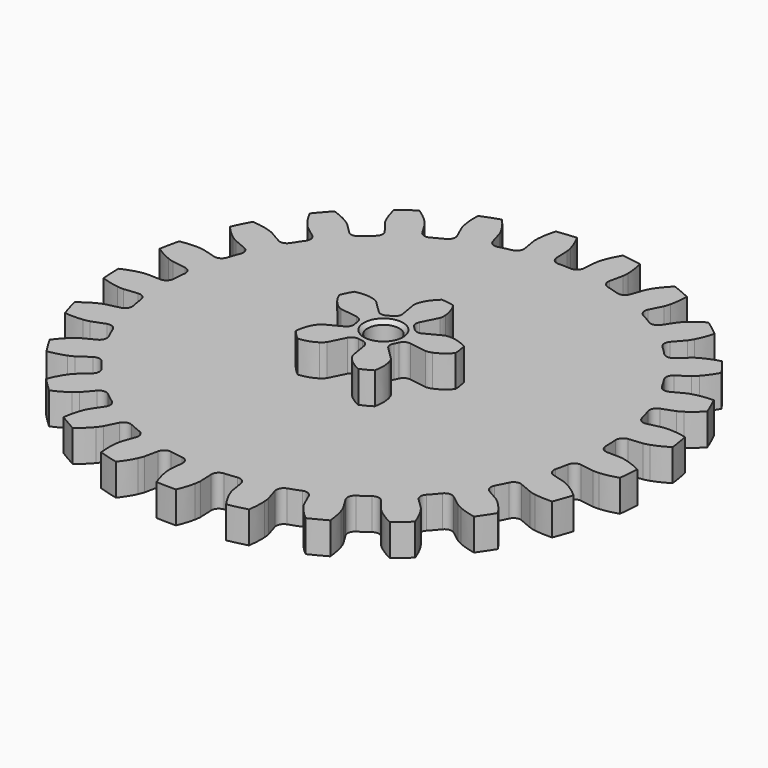
from build123d import *

# Parameters (mm, degrees)
PAD006_DEPTH            = 8.5
PAD007_DEPTH            = 8.5
SKETCH004_R             = 4.25
POCKET003_DEPTH         = 17.001
CHAMFER035_SIZE         = 1
CHAMFER040_SIZE         = 1
BODY003_PLACEMENT_ANGLE = 9.5


with BuildPart() as part:
    # InvoluteGear006 → Pad006 (new body)
    with BuildSketch(Plane.XY):
        with BuildLine():
            Line((60.87215, -3.939404), (64.559683, -4.176009))
            add(Edge.make_bspline(
                [(64.559683, -4.176009), (64.737537, -4.17945), (65.274995, -4.173671), (66.171668, -4.026252)],
                knots=[0, 0, 0, 0, 1, 1, 1, 1], degree=3))
            add(Edge.make_bspline(
                [(66.171668, -4.026252), (67.249506, -3.847612), (68.822578, -3.465338), (70.827658, -2.652928)],
                knots=[0, 0, 0, 0, 1, 1, 1, 1], degree=3))
            ThreePointArc((70.827658, -2.652928), (70.877327, 0), (70.827658, 2.652928))
            add(Edge.make_bspline(
                [(70.827658, 2.652928), (68.822578, 3.465338), (67.249506, 3.847612), (66.171668, 4.026252)],
                knots=[0, 0, 0, 0, 1, 1, 1, 1], degree=3))
            add(Edge.make_bspline(
                [(66.171668, 4.026252), (65.274995, 4.173671), (64.737537, 4.17945), (64.559683, 4.176009)],
                knots=[0, 0, 0, 0, 1, 1, 1, 1], degree=3))
            Line((64.559683, 4.176009), (60.87215, 3.939404))
            ThreePointArc((60.87215, 3.939404), (59.470106, 4.403842), (58.785585, 5.712605))
            ThreePointArc((58.785585, 5.712605), (58.596775, 7.402494), (58.359395, 9.086248))
            ThreePointArc((58.359395, 9.086248), (58.696934, 10.524127), (59.939429, 11.322648))
            Line((59.939429, 11.322648), (63.569953, 12.010529))
            add(Edge.make_bspline(
                [(63.569953, 12.010529), (63.743075, 12.051426), (64.262211, 12.190684), (65.094051, 12.556465)],
                knots=[0, 0, 0, 0, 1, 1, 1, 1], degree=3))
            add(Edge.make_bspline(
                [(65.094051, 12.556465), (66.093601, 12.99754), (67.522184, 13.759011), (69.262234, 15.044541)],
                knots=[0, 0, 0, 0, 1, 1, 1, 1], degree=3))
            ThreePointArc((69.262234, 15.044541), (68.650585, 17.626474), (67.942721, 20.183704))
            add(Edge.make_bspline(
                [(67.942721, 20.183704), (65.798595, 20.471947), (64.179876, 20.451004), (63.091475, 20.355985)],
                knots=[0, 0, 0, 0, 1, 1, 1, 1], degree=3))
            add(Edge.make_bspline(
                [(63.091475, 20.355985), (62.186311, 20.275779), (61.664301, 20.147715), (61.492891, 20.100152)],
                knots=[0, 0, 0, 0, 1, 1, 1, 1], degree=3))
            Line((61.492891, 20.100152), (57.980049, 18.953928))
            ThreePointArc((57.980049, 18.953928), (56.506552, 19.055101), (55.518061, 20.152513))
            ThreePointArc((55.518061, 20.152513), (54.914924, 21.742356), (54.266269, 23.314178))
            ThreePointArc((54.266269, 23.314178), (54.235618, 24.790826), (55.240494, 25.873256))
            Line((55.240494, 25.873256), (58.585889, 27.4424))
            add(Edge.make_bspline(
                [(58.585889, 27.4424), (58.743401, 27.525066), (59.211596, 27.789053), (59.926336, 28.350212)],
                knots=[0, 0, 0, 0, 1, 1, 1, 1], degree=3))
            add(Edge.make_bspline(
                [(59.926336, 28.350212), (60.784792, 29.026008), (61.979124, 30.118831), (63.344808, 31.796706)],
                knots=[0, 0, 0, 0, 1, 1, 1, 1], degree=3))
            ThreePointArc((63.344808, 31.796706), (62.110275, 34.145413), (60.788692, 36.446263))
            add(Edge.make_bspline(
                [(60.788692, 36.446263), (58.640245, 36.192228), (57.07759, 35.769384), (56.047013, 35.406676)],
                knots=[0, 0, 0, 0, 1, 1, 1, 1], degree=3))
            add(Edge.make_bspline(
                [(56.047013, 35.406676), (55.190233, 35.103884), (54.716471, 34.850026), (54.562274, 34.761329)],
                knots=[0, 0, 0, 0, 1, 1, 1, 1], degree=3))
            Line((54.562274, 34.761329), (51.444849, 32.777508))
            ThreePointArc((51.444849, 32.777508), (49.992484, 32.509058), (48.762133, 33.326165))
            ThreePointArc((48.762133, 33.326165), (47.782566, 34.716066), (46.763394, 36.077193))
            ThreePointArc((46.763394, 36.077193), (46.366478, 37.499827), (47.070595, 38.798152))
            Line((47.070595, 38.798152), (49.920658, 41.149965))
            add(Edge.make_bspline(
                [(49.920658, 41.149965), (50.052664, 41.269206), (50.440498, 41.641334), (50.993229, 42.362612)],
                knots=[0, 0, 0, 0, 1, 1, 1, 1], degree=3))
            add(Edge.make_bspline(
                [(50.993229, 42.362612), (51.656651, 43.230666), (52.541687, 44.586174), (53.447195, 46.550967)],
                knots=[0, 0, 0, 0, 1, 1, 1, 1], degree=3))
            ThreePointArc((53.447195, 46.550967), (51.667348, 48.518869), (49.815087, 50.41877))
            add(Edge.make_bspline(
                [(49.815087, 50.41877), (47.797313, 49.638419), (46.388908, 48.840243), (45.480911, 48.232635)],
                knots=[0, 0, 0, 0, 1, 1, 1, 1], degree=3))
            add(Edge.make_bspline(
                [(45.480911, 48.232635), (44.726349, 47.726284), (44.330603, 47.362581), (44.203309, 47.238323)],
                knots=[0, 0, 0, 0, 1, 1, 1, 1], degree=3))
            Line((44.203309, 47.238323), (41.67718, 44.541556))
            ThreePointArc((41.67718, 44.541556), (40.337204, 43.920351), (38.942301, 44.405812))
            ThreePointArc((38.942301, 44.405812), (37.647854, 45.508438), (36.322203, 46.573345))
            ThreePointArc((36.322203, 46.573345), (35.583963, 47.852575), (35.943077, 49.285218))
            Line((35.943077, 49.285218), (38.118729, 52.271926))
            add(Edge.make_bspline(
                [(38.118729, 52.271926), (38.216933, 52.420249), (38.500038, 52.877137), (38.85603, 53.713213)],
                knots=[0, 0, 0, 0, 1, 1, 1, 1], degree=3))
            add(Edge.make_bspline(
                [(38.85603, 53.713213), (39.282733, 54.718982), (39.802863, 56.252003), (40.191298, 58.38026)],
                knots=[0, 0, 0, 0, 1, 1, 1, 1], degree=3))
            ThreePointArc((40.191298, 58.38026), (37.977971, 59.843706), (35.711416, 61.22328))
            add(Edge.make_bspline(
                [(35.711416, 61.22328), (33.9511, 59.965645), (32.785441, 58.842289), (32.057076, 58.027961)],
                knots=[0, 0, 0, 0, 1, 1, 1, 1], degree=3))
            add(Edge.make_bspline(
                [(32.057076, 58.027961), (31.452145, 57.349866), (31.159281, 56.899171), (31.066887, 56.74716)],
                knots=[0, 0, 0, 0, 1, 1, 1, 1], degree=3))
            Line((31.066887, 56.74716), (29.29078, 53.506894))
            ThreePointArc((29.29078, 53.506894), (28.14739, 52.571967), (26.67558, 52.695278))
            ThreePointArc((26.67558, 52.695278), (25.147589, 53.441348), (23.598755, 54.143122))
            ThreePointArc((23.598755, 54.143122), (22.565576, 55.19857), (22.557124, 56.675512))
            Line((22.557124, 56.675512), (23.921659, 60.109449))
            add(Edge.make_bspline(
                [(23.921659, 60.109449), (23.979892, 60.277535), (24.14048, 60.790474), (24.277363, 61.688816)],
                knots=[0, 0, 0, 0, 1, 1, 1, 1], degree=3))
            add(Edge.make_bspline(
                [(24.277363, 61.688816), (24.440537, 62.769103), (24.563078, 64.383313), (24.410035, 66.541306)],
                knots=[0, 0, 0, 0, 1, 1, 1, 1], degree=3))
            ThreePointArc((24.410035, 66.541306), (21.902298, 67.408343), (19.363866, 68.180906))
            add(Edge.make_bspline(
                [(19.363866, 68.180906), (17.971614, 66.525009), (17.121944, 65.147058), (16.618977, 64.177176)],
                knots=[0, 0, 0, 0, 1, 1, 1, 1], degree=3))
            add(Edge.make_bspline(
                [(16.618977, 64.177176), (16.201686, 63.369945), (16.030106, 62.860577), (15.978419, 62.690365)],
                knots=[0, 0, 0, 0, 1, 1, 1, 1], degree=3))
            Line((15.978419, 62.690365), (15.063933, 59.110197))
            ThreePointArc((15.063933, 59.110197), (14.188971, 57.920294), (12.732735, 57.673706))
            ThreePointArc((12.732735, 57.673706), (11.067209, 58.016341), (9.39251, 58.310888))
            ThreePointArc((9.39251, 58.310888), (8.12931, 59.076236), (7.753824, 60.504675))
            Line((7.753824, 60.504675), (8.221504, 64.170075))
            add(Edge.make_bspline(
                [(8.221504, 64.170075), (8.236106, 64.347362), (8.264086, 64.884123), (8.173261, 65.788283)],
                knots=[0, 0, 0, 0, 1, 1, 1, 1], degree=3))
            add(Edge.make_bspline(
                [(8.173261, 65.788283), (8.062651, 66.87521), (7.779905, 68.469182), (7.094999, 70.521317)],
                knots=[0, 0, 0, 0, 1, 1, 1, 1], degree=3))
            ThreePointArc((7.094999, 70.521317), (4.450424, 70.737467), (1.799612, 70.854475))
            add(Edge.make_bspline(
                [(1.799612, 70.854475), (0.862906, 68.904362), (0.382612, 67.358398), (0.136646, 66.293904)],
                knots=[0, 0, 0, 0, 1, 1, 1, 1], degree=3))
            add(Edge.make_bspline(
                [(0.136646, 66.293904), (-0.066784, 65.408257), (-0.106299, 64.872222), (-0.114032, 64.694503)],
                knots=[0, 0, 0, 0, 1, 1, 1, 1], degree=3))
            Line((-0.114032, 64.694503), (-0.109436, 60.99939))
            ThreePointArc((-0.109436, 60.99939), (-0.660993, 59.629275), (-2.010155, 59.028283))
            ThreePointArc((-2.010155, 59.028283), (-3.708565, 58.945954), (-5.403902, 58.814766))
            ThreePointArc((-5.403902, 58.814766), (-6.817749, 59.241924), (-7.536677, 60.532107))
            Line((-7.536677, 60.532107), (-7.995238, 64.198659))
            add(Edge.make_bspline(
                [(-7.995238, 64.198659), (-8.025185, 64.374008), (-8.131571, 64.900864), (-8.444398, 65.75403)],
                knots=[0, 0, 0, 0, 1, 1, 1, 1], degree=3))
            add(Edge.make_bspline(
                [(-8.444398, 65.75403), (-8.821841, 66.779302), (-9.492108, 68.25288), (-10.665842, 70.070215)],
                knots=[0, 0, 0, 0, 1, 1, 1, 1], degree=3))
            ThreePointArc((-10.665842, 70.070215), (-13.281087, 69.621894), (-15.877717, 69.075997))
            add(Edge.make_bspline(
                [(-15.877717, 69.075997), (-16.300022, 66.954201), (-16.380761, 65.337361), (-16.35427, 64.245141)],
                knots=[0, 0, 0, 0, 1, 1, 1, 1], degree=3))
            add(Edge.make_bspline(
                [(-16.35427, 64.245141), (-16.331058, 63.336728), (-16.236025, 62.807706), (-16.199318, 62.633647)],
                knots=[0, 0, 0, 0, 1, 1, 1, 1], degree=3))
            Line((-16.199318, 62.633647), (-15.27593, 59.055766))
            ThreePointArc((-15.27593, 59.055766), (-15.469424, 57.591529), (-16.626739, 56.673896))
            ThreePointArc((-16.626739, 56.673896), (-18.251316, 56.171775), (-19.860766, 55.623097))
            ThreePointArc((-19.860766, 55.623097), (-21.336425, 55.685225), (-22.353622, 56.756084))
            Line((-22.353622, 56.756084), (-23.70961, 60.193405))
            add(Edge.make_bspline(
                [(-23.70961, 60.193405), (-23.782223, 60.355798), (-24.016291, 60.839644), (-24.531464, 61.58821)],
                knots=[0, 0, 0, 0, 1, 1, 1, 1], degree=3))
            add(Edge.make_bspline(
                [(-24.531464, 61.58821), (-25.152023, 62.487405), (-26.167697, 63.747999), (-27.756509, 65.216343)],
                knots=[0, 0, 0, 0, 1, 1, 1, 1], degree=3))
            ThreePointArc((-27.756509, 65.216343), (-30.178098, 64.131723), (-32.557391, 62.95722))
            add(Edge.make_bspline(
                [(-32.557391, 62.95722), (-32.43876, 60.797061), (-32.11487, 59.210938), (-31.817588, 58.15962)],
                knots=[0, 0, 0, 0, 1, 1, 1, 1], degree=3))
            add(Edge.make_bspline(
                [(-31.817588, 58.15962), (-31.569192, 57.285519), (-31.345582, 56.796751), (-31.266742, 56.637289)],
                knots=[0, 0, 0, 0, 1, 1, 1, 1], degree=3))
            Line((-31.266742, 56.637289), (-29.48258, 53.401451))
            ThreePointArc((-29.48258, 53.401451), (-29.305855, 51.935096), (-30.198604, 50.758479))
            ThreePointArc((-30.198604, 50.758479), (-31.64727, 49.868118), (-33.069705, 48.936423))
            ThreePointArc((-33.069705, 48.936423), (-34.514454, 48.629618), (-35.766006, 49.413868))
            Line((-35.766006, 49.413868), (-37.934221, 52.405979))
            add(Edge.make_bspline(
                [(-37.934221, 52.405979), (-38.044938, 52.545211), (-38.391979, 52.955646), (-39.077128, 53.552576)],
                knots=[0, 0, 0, 0, 1, 1, 1, 1], degree=3))
            add(Edge.make_bspline(
                [(-39.077128, 53.552576), (-39.901812, 54.269195), (-41.199073, 55.237597), (-43.103132, 56.264689)],
                knots=[0, 0, 0, 0, 1, 1, 1, 1], degree=3))
            ThreePointArc((-43.103132, 56.264689), (-45.178908, 54.611919), (-47.191365, 52.882609))
            add(Edge.make_bspline(
                [(-47.191365, 52.882609), (-46.539251, 50.819818), (-45.831084, 49.364074), (-45.281689, 48.419717)],
                knots=[0, 0, 0, 0, 1, 1, 1, 1], degree=3))
            add(Edge.make_bspline(
                [(-45.281689, 48.419717), (-44.823717, 47.63485), (-44.48558, 47.217048), (-44.36956, 47.082202)],
                knots=[0, 0, 0, 0, 1, 1, 1, 1], degree=3))
            Line((-44.36956, 47.082202), (-41.836731, 44.391727))
            ThreePointArc((-41.836731, 44.391727), (-41.30089, 43.01539), (-41.87298, 41.653721))
            ThreePointArc((-41.87298, 41.653721), (-43.05471, 40.431063), (-44.200753, 39.174894))
            ThreePointArc((-44.200753, 39.174894), (-45.523813, 38.518434), (-46.93108, 38.966796))
            Line((-46.93108, 38.966796), (-49.775284, 41.325691))
            add(Edge.make_bspline(
                [(-49.775284, 41.325691), (-49.917149, 41.433015), (-50.355358, 41.74425), (-51.167432, 42.152037)],
                knots=[0, 0, 0, 0, 1, 1, 1, 1], degree=3))
            add(Edge.make_bspline(
                [(-51.167432, 42.152037), (-52.144423, 42.641051), (-53.64176, 43.256413), (-55.741427, 43.777717)],
                knots=[0, 0, 0, 0, 1, 1, 1, 1], degree=3))
            ThreePointArc((-55.741427, 43.777717), (-57.340962, 41.660647), (-58.860131, 39.485189))
            add(Edge.make_bspline(
                [(-58.860131, 39.485189), (-57.715509, 37.649379), (-56.667562, 36.415484), (-55.900576, 35.637424)],
                knots=[0, 0, 0, 0, 1, 1, 1, 1], degree=3))
            add(Edge.make_bspline(
                [(-55.900576, 35.637424), (-55.261803, 34.991109), (-54.830386, 34.670524), (-54.684477, 34.568768)],
                knots=[0, 0, 0, 0, 1, 1, 1, 1], degree=3))
            Line((-54.684477, 34.568768), (-51.562127, 32.592707))
            ThreePointArc((-51.562127, 32.592707), (-50.700839, 31.392869), (-50.916322, 29.931706))
            ThreePointArc((-50.916322, 29.931706), (-51.756863, 28.453576), (-52.554505, 26.951863))
            ThreePointArc((-52.554505, 26.951863), (-53.672744, 25.986994), (-55.147302, 26.071298))
            Line((-55.147302, 26.071298), (-58.488784, 27.648759))
            add(Edge.make_bspline(
                [(-58.488784, 27.648759), (-58.652881, 27.717431), (-59.154725, 27.90991), (-60.042699, 28.10293)],
                knots=[0, 0, 0, 0, 1, 1, 1, 1], degree=3))
            add(Edge.make_bspline(
                [(-60.042699, 28.10293), (-61.110608, 28.333613), (-62.713938, 28.55727), (-64.877283, 28.54003)],
                knots=[0, 0, 0, 0, 1, 1, 1, 1], degree=3))
            ThreePointArc((-64.877283, 28.54003), (-65.900072, 26.091684), (-66.830499, 23.60677))
            add(Edge.make_bspline(
                [(-66.830499, 23.60677), (-65.26529, 22.113291), (-63.943409, 21.178775), (-63.007023, 20.615901)],
                knots=[0, 0, 0, 0, 1, 1, 1, 1], degree=3))
            add(Edge.make_bspline(
                [(-63.007023, 20.615901), (-62.227586, 20.148747), (-61.729998, 19.945523), (-61.563366, 19.88325)],
                knots=[0, 0, 0, 0, 1, 1, 1, 1], degree=3))
            Line((-61.563366, 19.88325), (-58.047685, 18.745768))
            ThreePointArc((-58.047685, 18.745768), (-56.915068, 17.797818), (-56.760405, 16.328972))
            ThreePointArc((-56.760405, 16.328972), (-57.206943, 14.688246), (-57.606064, 13.035347))
            ThreePointArc((-57.606064, 13.035347), (-58.449219, 11.822697), (-59.898416, 11.537644))
            Line((-59.898416, 11.537644), (-63.527218, 12.234553))
            add(Edge.make_bspline(
                [(-63.527218, 12.234553), (-63.703238, 12.260258), (-64.237183, 12.321887), (-65.145261, 12.288013)],
                knots=[0, 0, 0, 0, 1, 1, 1, 1], degree=3))
            add(Edge.make_bspline(
                [(-65.145261, 12.288013), (-66.236989, 12.24587), (-67.845569, 12.063769), (-69.936661, 11.509068)],
                knots=[0, 0, 0, 0, 1, 1, 1, 1], degree=3))
            ThreePointArc((-69.936661, 11.509068), (-70.318438, 8.883285), (-70.601661, 6.245051))
            add(Edge.make_bspline(
                [(-70.601661, 6.245051), (-68.714213, 5.187744), (-67.201457, 4.611326), (-66.154508, 4.299005)],
                knots=[0, 0, 0, 0, 1, 1, 1, 1], degree=3))
            add(Edge.make_bspline(
                [(-66.154508, 4.299005), (-65.283382, 4.040366), (-64.750886, 3.967271), (-64.574003, 3.948394)],
                knots=[0, 0, 0, 0, 1, 1, 1, 1], degree=3))
            Line((-64.574003, 3.948394), (-60.885893, 3.720963))
            ThreePointArc((-60.885893, 3.720963), (-59.553114, 3.084465), (-59.038023, 1.700229))
            ThreePointArc((-59.038023, 1.700229), (-59.0625, 0), (-59.038023, -1.700229))
            ThreePointArc((-59.038023, -1.700229), (-59.553114, -3.084465), (-60.885893, -3.720963))
            Line((-60.885893, -3.720963), (-64.574003, -3.948394))
            add(Edge.make_bspline(
                [(-64.574003, -3.948394), (-64.750886, -3.967271), (-65.283382, -4.040366), (-66.154508, -4.299005)],
                knots=[0, 0, 0, 0, 1, 1, 1, 1], degree=3))
            add(Edge.make_bspline(
                [(-66.154508, -4.299005), (-67.201457, -4.611326), (-68.714213, -5.187744), (-70.601661, -6.245051)],
                knots=[0, 0, 0, 0, 1, 1, 1, 1], degree=3))
            ThreePointArc((-70.601661, -6.245051), (-70.318438, -8.883285), (-69.936661, -11.509068))
            add(Edge.make_bspline(
                [(-69.936661, -11.509068), (-67.845569, -12.063769), (-66.236989, -12.24587), (-65.145261, -12.288013)],
                knots=[0, 0, 0, 0, 1, 1, 1, 1], degree=3))
            add(Edge.make_bspline(
                [(-65.145261, -12.288013), (-64.237183, -12.321887), (-63.703238, -12.260258), (-63.527218, -12.234553)],
                knots=[0, 0, 0, 0, 1, 1, 1, 1], degree=3))
            Line((-63.527218, -12.234553), (-59.898416, -11.537644))
            ThreePointArc((-59.898416, -11.537644), (-58.449219, -11.822697), (-57.606064, -13.035347))
            ThreePointArc((-57.606064, -13.035347), (-57.206943, -14.688246), (-56.760405, -16.328972))
            ThreePointArc((-56.760405, -16.328972), (-56.915068, -17.797818), (-58.047685, -18.745768))
            Line((-58.047685, -18.745768), (-61.563366, -19.88325))
            add(Edge.make_bspline(
                [(-61.563366, -19.88325), (-61.729998, -19.945523), (-62.227586, -20.148747), (-63.007023, -20.615901)],
                knots=[0, 0, 0, 0, 1, 1, 1, 1], degree=3))
            add(Edge.make_bspline(
                [(-63.007023, -20.615901), (-63.943409, -21.178775), (-65.26529, -22.113291), (-66.830499, -23.60677)],
                knots=[0, 0, 0, 0, 1, 1, 1, 1], degree=3))
            ThreePointArc((-66.830499, -23.60677), (-65.900072, -26.091684), (-64.877283, -28.54003))
            add(Edge.make_bspline(
                [(-64.877283, -28.54003), (-62.713938, -28.55727), (-61.110608, -28.333613), (-60.042699, -28.10293)],
                knots=[0, 0, 0, 0, 1, 1, 1, 1], degree=3))
            add(Edge.make_bspline(
                [(-60.042699, -28.10293), (-59.154725, -27.90991), (-58.652881, -27.717431), (-58.488784, -27.648759)],
                knots=[0, 0, 0, 0, 1, 1, 1, 1], degree=3))
            Line((-58.488784, -27.648759), (-55.147302, -26.071298))
            ThreePointArc((-55.147302, -26.071298), (-53.672744, -25.986994), (-52.554505, -26.951863))
            ThreePointArc((-52.554505, -26.951863), (-51.756863, -28.453576), (-50.916322, -29.931706))
            ThreePointArc((-50.916322, -29.931706), (-50.700839, -31.392869), (-51.562127, -32.592707))
            Line((-51.562127, -32.592707), (-54.684477, -34.568768))
            add(Edge.make_bspline(
                [(-54.684477, -34.568768), (-54.830386, -34.670524), (-55.261803, -34.991109), (-55.900576, -35.637424)],
                knots=[0, 0, 0, 0, 1, 1, 1, 1], degree=3))
            add(Edge.make_bspline(
                [(-55.900576, -35.637424), (-56.667562, -36.415484), (-57.715509, -37.649379), (-58.860131, -39.485189)],
                knots=[0, 0, 0, 0, 1, 1, 1, 1], degree=3))
            ThreePointArc((-58.860131, -39.485189), (-57.340962, -41.660647), (-55.741427, -43.777717))
            add(Edge.make_bspline(
                [(-55.741427, -43.777717), (-53.64176, -43.256413), (-52.144423, -42.641051), (-51.167432, -42.152037)],
                knots=[0, 0, 0, 0, 1, 1, 1, 1], degree=3))
            add(Edge.make_bspline(
                [(-51.167432, -42.152037), (-50.355358, -41.74425), (-49.917149, -41.433015), (-49.775284, -41.325691)],
                knots=[0, 0, 0, 0, 1, 1, 1, 1], degree=3))
            Line((-49.775284, -41.325691), (-46.93108, -38.966796))
            ThreePointArc((-46.93108, -38.966796), (-45.523813, -38.518434), (-44.200753, -39.174894))
            ThreePointArc((-44.200753, -39.174894), (-43.05471, -40.431063), (-41.87298, -41.653721))
            ThreePointArc((-41.87298, -41.653721), (-41.30089, -43.01539), (-41.836731, -44.391727))
            Line((-41.836731, -44.391727), (-44.36956, -47.082202))
            add(Edge.make_bspline(
                [(-44.36956, -47.082202), (-44.48558, -47.217048), (-44.823717, -47.63485), (-45.281689, -48.419717)],
                knots=[0, 0, 0, 0, 1, 1, 1, 1], degree=3))
            add(Edge.make_bspline(
                [(-45.281689, -48.419717), (-45.831084, -49.364074), (-46.539251, -50.819818), (-47.191365, -52.882609)],
                knots=[0, 0, 0, 0, 1, 1, 1, 1], degree=3))
            ThreePointArc((-47.191365, -52.882609), (-45.178908, -54.611919), (-43.103132, -56.264689))
            add(Edge.make_bspline(
                [(-43.103132, -56.264689), (-41.199073, -55.237597), (-39.901812, -54.269195), (-39.077128, -53.552576)],
                knots=[0, 0, 0, 0, 1, 1, 1, 1], degree=3))
            add(Edge.make_bspline(
                [(-39.077128, -53.552576), (-38.391979, -52.955646), (-38.044938, -52.545211), (-37.934221, -52.405979)],
                knots=[0, 0, 0, 0, 1, 1, 1, 1], degree=3))
            Line((-37.934221, -52.405979), (-35.766006, -49.413868))
            ThreePointArc((-35.766006, -49.413868), (-34.514454, -48.629618), (-33.069705, -48.936423))
            ThreePointArc((-33.069705, -48.936423), (-31.64727, -49.868118), (-30.198604, -50.758479))
            ThreePointArc((-30.198604, -50.758479), (-29.305855, -51.935096), (-29.48258, -53.401451))
            Line((-29.48258, -53.401451), (-31.266742, -56.637289))
            add(Edge.make_bspline(
                [(-31.266742, -56.637289), (-31.345582, -56.796751), (-31.569192, -57.285519), (-31.817588, -58.15962)],
                knots=[0, 0, 0, 0, 1, 1, 1, 1], degree=3))
            add(Edge.make_bspline(
                [(-31.817588, -58.15962), (-32.11487, -59.210938), (-32.43876, -60.797061), (-32.557391, -62.95722)],
                knots=[0, 0, 0, 0, 1, 1, 1, 1], degree=3))
            ThreePointArc((-32.557391, -62.95722), (-30.178098, -64.131723), (-27.756509, -65.216343))
            add(Edge.make_bspline(
                [(-27.756509, -65.216343), (-26.167697, -63.747999), (-25.152023, -62.487405), (-24.531464, -61.58821)],
                knots=[0, 0, 0, 0, 1, 1, 1, 1], degree=3))
            add(Edge.make_bspline(
                [(-24.531464, -61.58821), (-24.016291, -60.839644), (-23.782223, -60.355798), (-23.70961, -60.193405)],
                knots=[0, 0, 0, 0, 1, 1, 1, 1], degree=3))
            Line((-23.70961, -60.193405), (-22.353622, -56.756084))
            ThreePointArc((-22.353622, -56.756084), (-21.336425, -55.685225), (-19.860766, -55.623097))
            ThreePointArc((-19.860766, -55.623097), (-18.251316, -56.171775), (-16.626739, -56.673896))
            ThreePointArc((-16.626739, -56.673896), (-15.469424, -57.591529), (-15.27593, -59.055766))
            Line((-15.27593, -59.055766), (-16.199318, -62.633647))
            add(Edge.make_bspline(
                [(-16.199318, -62.633647), (-16.236025, -62.807706), (-16.331058, -63.336728), (-16.35427, -64.245141)],
                knots=[0, 0, 0, 0, 1, 1, 1, 1], degree=3))
            add(Edge.make_bspline(
                [(-16.35427, -64.245141), (-16.380761, -65.337361), (-16.300022, -66.954201), (-15.877717, -69.075997)],
                knots=[0, 0, 0, 0, 1, 1, 1, 1], degree=3))
            ThreePointArc((-15.877717, -69.075997), (-13.281087, -69.621894), (-10.665842, -70.070215))
            add(Edge.make_bspline(
                [(-10.665842, -70.070215), (-9.492108, -68.25288), (-8.821841, -66.779302), (-8.444398, -65.75403)],
                knots=[0, 0, 0, 0, 1, 1, 1, 1], degree=3))
            add(Edge.make_bspline(
                [(-8.444398, -65.75403), (-8.131571, -64.900864), (-8.025185, -64.374008), (-7.995238, -64.198659)],
                knots=[0, 0, 0, 0, 1, 1, 1, 1], degree=3))
            Line((-7.995238, -64.198659), (-7.536677, -60.532107))
            ThreePointArc((-7.536677, -60.532107), (-6.817749, -59.241924), (-5.403902, -58.814766))
            ThreePointArc((-5.403902, -58.814766), (-3.708565, -58.945954), (-2.010155, -59.028283))
            ThreePointArc((-2.010155, -59.028283), (-0.660993, -59.629275), (-0.109436, -60.99939))
            Line((-0.109436, -60.99939), (-0.114032, -64.694503))
            add(Edge.make_bspline(
                [(-0.114032, -64.694503), (-0.106299, -64.872222), (-0.066784, -65.408257), (0.136646, -66.293904)],
                knots=[0, 0, 0, 0, 1, 1, 1, 1], degree=3))
            add(Edge.make_bspline(
                [(0.136646, -66.293904), (0.382612, -67.358398), (0.862906, -68.904362), (1.799612, -70.854475)],
                knots=[0, 0, 0, 0, 1, 1, 1, 1], degree=3))
            ThreePointArc((1.799612, -70.854475), (4.450424, -70.737467), (7.094999, -70.521317))
            add(Edge.make_bspline(
                [(7.094999, -70.521317), (7.779905, -68.469182), (8.062651, -66.87521), (8.173261, -65.788283)],
                knots=[0, 0, 0, 0, 1, 1, 1, 1], degree=3))
            add(Edge.make_bspline(
                [(8.173261, -65.788283), (8.264086, -64.884123), (8.236106, -64.347362), (8.221504, -64.170075)],
                knots=[0, 0, 0, 0, 1, 1, 1, 1], degree=3))
            Line((8.221504, -64.170075), (7.753824, -60.504675))
            ThreePointArc((7.753824, -60.504675), (8.12931, -59.076236), (9.39251, -58.310888))
            ThreePointArc((9.39251, -58.310888), (11.067209, -58.016341), (12.732735, -57.673706))
            ThreePointArc((12.732735, -57.673706), (14.188971, -57.920294), (15.063933, -59.110197))
            Line((15.063933, -59.110197), (15.978419, -62.690365))
            add(Edge.make_bspline(
                [(15.978419, -62.690365), (16.030106, -62.860577), (16.201686, -63.369945), (16.618977, -64.177176)],
                knots=[0, 0, 0, 0, 1, 1, 1, 1], degree=3))
            add(Edge.make_bspline(
                [(16.618977, -64.177176), (17.121944, -65.147058), (17.971614, -66.525009), (19.363866, -68.180906)],
                knots=[0, 0, 0, 0, 1, 1, 1, 1], degree=3))
            ThreePointArc((19.363866, -68.180906), (21.902298, -67.408343), (24.410035, -66.541306))
            add(Edge.make_bspline(
                [(24.410035, -66.541306), (24.563078, -64.383313), (24.440537, -62.769103), (24.277363, -61.688816)],
                knots=[0, 0, 0, 0, 1, 1, 1, 1], degree=3))
            add(Edge.make_bspline(
                [(24.277363, -61.688816), (24.14048, -60.790474), (23.979892, -60.277535), (23.921659, -60.109449)],
                knots=[0, 0, 0, 0, 1, 1, 1, 1], degree=3))
            Line((23.921659, -60.109449), (22.557124, -56.675512))
            ThreePointArc((22.557124, -56.675512), (22.565576, -55.19857), (23.598755, -54.143122))
            ThreePointArc((23.598755, -54.143122), (25.147589, -53.441348), (26.67558, -52.695278))
            ThreePointArc((26.67558, -52.695278), (28.14739, -52.571967), (29.29078, -53.506894))
            Line((29.29078, -53.506894), (31.066887, -56.74716))
            add(Edge.make_bspline(
                [(31.066887, -56.74716), (31.159281, -56.899171), (31.452145, -57.349866), (32.057076, -58.027961)],
                knots=[0, 0, 0, 0, 1, 1, 1, 1], degree=3))
            add(Edge.make_bspline(
                [(32.057076, -58.027961), (32.785441, -58.842289), (33.9511, -59.965645), (35.711416, -61.22328)],
                knots=[0, 0, 0, 0, 1, 1, 1, 1], degree=3))
            ThreePointArc((35.711416, -61.22328), (37.977971, -59.843706), (40.191298, -58.38026))
            add(Edge.make_bspline(
                [(40.191298, -58.38026), (39.802863, -56.252003), (39.282733, -54.718982), (38.85603, -53.713213)],
                knots=[0, 0, 0, 0, 1, 1, 1, 1], degree=3))
            add(Edge.make_bspline(
                [(38.85603, -53.713213), (38.500038, -52.877137), (38.216933, -52.420249), (38.118729, -52.271926)],
                knots=[0, 0, 0, 0, 1, 1, 1, 1], degree=3))
            Line((38.118729, -52.271926), (35.943077, -49.285218))
            ThreePointArc((35.943077, -49.285218), (35.583963, -47.852575), (36.322203, -46.573345))
            ThreePointArc((36.322203, -46.573345), (37.647854, -45.508438), (38.942301, -44.405812))
            ThreePointArc((38.942301, -44.405812), (40.337204, -43.920351), (41.67718, -44.541556))
            Line((41.67718, -44.541556), (44.203309, -47.238323))
            add(Edge.make_bspline(
                [(44.203309, -47.238323), (44.330603, -47.362581), (44.726349, -47.726284), (45.480911, -48.232635)],
                knots=[0, 0, 0, 0, 1, 1, 1, 1], degree=3))
            add(Edge.make_bspline(
                [(45.480911, -48.232635), (46.388908, -48.840243), (47.797313, -49.638419), (49.815087, -50.41877)],
                knots=[0, 0, 0, 0, 1, 1, 1, 1], degree=3))
            ThreePointArc((49.815087, -50.41877), (51.667348, -48.518869), (53.447195, -46.550967))
            add(Edge.make_bspline(
                [(53.447195, -46.550967), (52.541687, -44.586174), (51.656651, -43.230666), (50.993229, -42.362612)],
                knots=[0, 0, 0, 0, 1, 1, 1, 1], degree=3))
            add(Edge.make_bspline(
                [(50.993229, -42.362612), (50.440498, -41.641334), (50.052664, -41.269206), (49.920658, -41.149965)],
                knots=[0, 0, 0, 0, 1, 1, 1, 1], degree=3))
            Line((49.920658, -41.149965), (47.070595, -38.798152))
            ThreePointArc((47.070595, -38.798152), (46.366478, -37.499827), (46.763394, -36.077193))
            ThreePointArc((46.763394, -36.077193), (47.782566, -34.716066), (48.762133, -33.326165))
            ThreePointArc((48.762133, -33.326165), (49.992484, -32.509058), (51.444849, -32.777508))
            Line((51.444849, -32.777508), (54.562274, -34.761329))
            add(Edge.make_bspline(
                [(54.562274, -34.761329), (54.716471, -34.850026), (55.190233, -35.103884), (56.047013, -35.406676)],
                knots=[0, 0, 0, 0, 1, 1, 1, 1], degree=3))
            add(Edge.make_bspline(
                [(56.047013, -35.406676), (57.07759, -35.769384), (58.640245, -36.192228), (60.788692, -36.446263)],
                knots=[0, 0, 0, 0, 1, 1, 1, 1], degree=3))
            ThreePointArc((60.788692, -36.446263), (62.110275, -34.145413), (63.344808, -31.796706))
            add(Edge.make_bspline(
                [(63.344808, -31.796706), (61.979124, -30.118831), (60.784792, -29.026008), (59.926336, -28.350212)],
                knots=[0, 0, 0, 0, 1, 1, 1, 1], degree=3))
            add(Edge.make_bspline(
                [(59.926336, -28.350212), (59.211596, -27.789053), (58.743401, -27.525066), (58.585889, -27.4424)],
                knots=[0, 0, 0, 0, 1, 1, 1, 1], degree=3))
            Line((58.585889, -27.4424), (55.240494, -25.873256))
            ThreePointArc((55.240494, -25.873256), (54.235618, -24.790826), (54.266269, -23.314178))
            ThreePointArc((54.266269, -23.314178), (54.914924, -21.742356), (55.518061, -20.152513))
            ThreePointArc((55.518061, -20.152513), (56.506552, -19.055101), (57.980049, -18.953928))
            Line((57.980049, -18.953928), (61.492891, -20.100152))
            add(Edge.make_bspline(
                [(61.492891, -20.100152), (61.664301, -20.147715), (62.186311, -20.275779), (63.091475, -20.355985)],
                knots=[0, 0, 0, 0, 1, 1, 1, 1], degree=3))
            add(Edge.make_bspline(
                [(63.091475, -20.355985), (64.179876, -20.451004), (65.798595, -20.471947), (67.942721, -20.183704)],
                knots=[0, 0, 0, 0, 1, 1, 1, 1], degree=3))
            ThreePointArc((67.942721, -20.183704), (68.650585, -17.626474), (69.262234, -15.044541))
            add(Edge.make_bspline(
                [(69.262234, -15.044541), (67.522184, -13.759011), (66.093601, -12.99754), (65.094051, -12.556465)],
                knots=[0, 0, 0, 0, 1, 1, 1, 1], degree=3))
            add(Edge.make_bspline(
                [(65.094051, -12.556465), (64.262211, -12.190684), (63.743075, -12.051426), (63.569953, -12.010529)],
                knots=[0, 0, 0, 0, 1, 1, 1, 1], degree=3))
            Line((63.569953, -12.010529), (59.939429, -11.322648))
            ThreePointArc((59.939429, -11.322648), (58.696934, -10.524127), (58.359395, -9.086248))
            ThreePointArc((58.359395, -9.086248), (58.596775, -7.402494), (58.785585, -5.712605))
            ThreePointArc((58.785585, -5.712605), (59.470106, -4.403842), (60.87215, -3.939404))
        make_face()
    extrude(amount=-PAD006_DEPTH)

    # InvoluteGear007 → Pad007 (join)
    with BuildSketch(Plane.XY):
        with BuildLine():
            Line((7.890085, -2.579303), (12.35537, -4.033541))
            add(Edge.make_bspline(
                [(12.35537, -4.033541), (12.530571, -4.071246), (13.055268, -4.148009), (13.977542, -3.973093)],
                knots=[0, 0, 0, 0, 1, 1, 1, 1], degree=3))
            add(Edge.make_bspline(
                [(13.977542, -3.973093), (15.061191, -3.751693), (16.577896, -3.174691), (18.30138, -1.758246)],
                knots=[0, 0, 0, 0, 1, 1, 1, 1], degree=3))
            ThreePointArc((18.30138, -1.758246), (18.385694, 0), (18.30138, 1.758246))
            add(Edge.make_bspline(
                [(18.30138, 1.758246), (16.577896, 3.174691), (15.061191, 3.751693), (13.977542, 3.973093)],
                knots=[0, 0, 0, 0, 1, 1, 1, 1], degree=3))
            add(Edge.make_bspline(
                [(13.977542, 3.973093), (13.055268, 4.148009), (12.530571, 4.071246), (12.35537, 4.033541)],
                knots=[0, 0, 0, 0, 1, 1, 1, 1], degree=3))
            Line((12.35537, 4.033541), (7.890085, 2.579303))
            ThreePointArc((7.890085, 2.579303), (6.616227, 2.596181), (5.619406, 3.389496))
            ThreePointArc((5.619406, 3.389496), (5.309174, 3.857341), (4.960094, 4.296961))
            ThreePointArc((4.960094, 4.296961), (4.513641, 5.490142), (4.891233, 6.706869))
            Line((4.891233, 6.706869), (7.654145, 10.504222))
            add(Edge.make_bspline(
                [(7.654145, 10.504222), (7.744144, 10.659197), (7.97929, 11.134492), (8.097934, 12.065679)],
                knots=[0, 0, 0, 0, 1, 1, 1, 1], degree=3))
            add(Edge.make_bspline(
                [(8.097934, 12.065679), (8.222237, 13.164707), (8.142162, 14.785482), (7.327629, 16.862319)],
                knots=[0, 0, 0, 0, 1, 1, 1, 1], degree=3))
            ThreePointArc((7.327629, 16.862319), (5.681492, 17.485834), (3.983246, 17.948975))
            add(Edge.make_bspline(
                [(3.983246, 17.948975), (2.103541, 16.747549), (1.086092, 15.483381), (0.540662, 14.521186)],
                knots=[0, 0, 0, 0, 1, 1, 1, 1], degree=3))
            add(Edge.make_bspline(
                [(0.540662, 14.521186), (0.089309, 13.698103), (0.000175, 13.175365), (-0.018106, 12.997088)],
                knots=[0, 0, 0, 0, 1, 1, 1, 1], degree=3))
            Line((-0.018106, 12.997088), (-0.014892, 8.300965))
            ThreePointArc((-0.014892, 8.300965), (-0.424588, 7.09467), (-1.48711, 6.391785))
            ThreePointArc((-1.48711, 6.391785), (-2.027924, 6.241308), (-2.553899, 6.045164))
            ThreePointArc((-2.553899, 6.045164), (-3.826643, 5.989275), (-4.867137, 6.724376))
            Line((-4.867137, 6.724376), (-7.624848, 10.525507))
            add(Edge.make_bspline(
                [(-7.624848, 10.525507), (-7.744427, 10.658992), (-8.123795, 11.029504), (-8.972744, 11.430093)],
                knots=[0, 0, 0, 0, 1, 1, 1, 1], degree=3))
            add(Edge.make_bspline(
                [(-8.972744, 11.430093), (-9.97957, 11.88793), (-11.545763, 12.312621), (-13.772656, 12.179732)],
                knots=[0, 0, 0, 0, 1, 1, 1, 1], degree=3))
            ThreePointArc((-13.772656, 12.179732), (-14.874339, 10.80684), (-15.839599, 9.33483))
            add(Edge.make_bspline(
                [(-15.839599, 9.33483), (-15.277836, 7.175864), (-14.38995, 5.817562), (-13.643395, 5.001493)],
                knots=[0, 0, 0, 0, 1, 1, 1, 1], degree=3))
            add(Edge.make_bspline(
                [(-13.643395, 5.001493), (-13.000072, 4.317884), (-12.530463, 4.071578), (-12.36656, 3.999101)],
                knots=[0, 0, 0, 0, 1, 1, 1, 1], degree=3))
            Line((-12.36656, 3.999101), (-7.899289, 2.550976))
            ThreePointArc((-7.899289, 2.550976), (-6.878637, 1.788566), (-6.538491, 0.560844))
            ThreePointArc((-6.538491, 0.560844), (-6.5625, 0), (-6.538491, -0.560844))
            ThreePointArc((-6.538491, -0.560844), (-6.878637, -1.788566), (-7.899289, -2.550976))
            Line((-7.899289, -2.550976), (-12.36656, -3.999101))
            add(Edge.make_bspline(
                [(-12.36656, -3.999101), (-12.530463, -4.071578), (-13.000072, -4.317884), (-13.643395, -5.001493)],
                knots=[0, 0, 0, 0, 1, 1, 1, 1], degree=3))
            add(Edge.make_bspline(
                [(-13.643395, -5.001493), (-14.38995, -5.817562), (-15.277836, -7.175864), (-15.839599, -9.33483)],
                knots=[0, 0, 0, 0, 1, 1, 1, 1], degree=3))
            ThreePointArc((-15.839599, -9.33483), (-14.874339, -10.80684), (-13.772656, -12.179732))
            add(Edge.make_bspline(
                [(-13.772656, -12.179732), (-11.545763, -12.312621), (-9.97957, -11.88793), (-8.972744, -11.430093)],
                knots=[0, 0, 0, 0, 1, 1, 1, 1], degree=3))
            add(Edge.make_bspline(
                [(-8.972744, -11.430093), (-8.123795, -11.029504), (-7.744427, -10.658992), (-7.624848, -10.525507)],
                knots=[0, 0, 0, 0, 1, 1, 1, 1], degree=3))
            Line((-7.624848, -10.525507), (-4.867137, -6.724376))
            ThreePointArc((-4.867137, -6.724376), (-3.826643, -5.989275), (-2.553899, -6.045164))
            ThreePointArc((-2.553899, -6.045164), (-2.027924, -6.241308), (-1.48711, -6.391785))
            ThreePointArc((-1.48711, -6.391785), (-0.424588, -7.09467), (-0.014892, -8.300965))
            Line((-0.014892, -8.300965), (-0.018106, -12.997088))
            add(Edge.make_bspline(
                [(-0.018106, -12.997088), (0.000175, -13.175365), (0.089309, -13.698103), (0.540662, -14.521186)],
                knots=[0, 0, 0, 0, 1, 1, 1, 1], degree=3))
            add(Edge.make_bspline(
                [(0.540662, -14.521186), (1.086092, -15.483381), (2.103541, -16.747549), (3.983246, -17.948975)],
                knots=[0, 0, 0, 0, 1, 1, 1, 1], degree=3))
            ThreePointArc((3.983246, -17.948975), (5.681492, -17.485834), (7.327629, -16.862319))
            add(Edge.make_bspline(
                [(7.327629, -16.862319), (8.142162, -14.785482), (8.222237, -13.164707), (8.097934, -12.065679)],
                knots=[0, 0, 0, 0, 1, 1, 1, 1], degree=3))
            add(Edge.make_bspline(
                [(8.097934, -12.065679), (7.97929, -11.134492), (7.744144, -10.659197), (7.654145, -10.504222)],
                knots=[0, 0, 0, 0, 1, 1, 1, 1], degree=3))
            Line((7.654145, -10.504222), (4.891233, -6.706869))
            ThreePointArc((4.891233, -6.706869), (4.513641, -5.490142), (4.960094, -4.296961))
            ThreePointArc((4.960094, -4.296961), (5.309174, -3.857341), (5.619406, -3.389496))
            ThreePointArc((5.619406, -3.389496), (6.616227, -2.596181), (7.890085, -2.579303))
        make_face()
    extrude(amount=PAD007_DEPTH)

    # Sketch004 (on Face5 of Pad007) → Pocket003 (cut, through all)
    with BuildSketch(Plane(origin=(0, 0, -8.5), x_dir=(1, 0, 0), z_dir=(0, 0, -1))):
        Circle(SKETCH004_R)
    extrude(amount=-POCKET003_DEPTH, mode=Mode.SUBTRACT)

    # Chamfer035
    chamfer035_edges = [part.edges().sort_by_distance(p)[0] for p in [
        (-4.25, 0, -8.5),
    ]]
    chamfer(chamfer035_edges, length=CHAMFER035_SIZE)

    # Chamfer040
    chamfer040_edges = [part.edges().sort_by_distance(p)[0] for p in [
        (-4.25, 0, 8.5),
    ]]
    chamfer(chamfer040_edges, length=CHAMFER040_SIZE)


with BuildPart() as part_1:
    # Body003 placement: moved
    add(part.part.moved(Location((111, 90, 0))).rotate(Axis((111, 90, 0), (0, 0, 1)), BODY003_PLACEMENT_ANGLE))


solid = part_1.part
